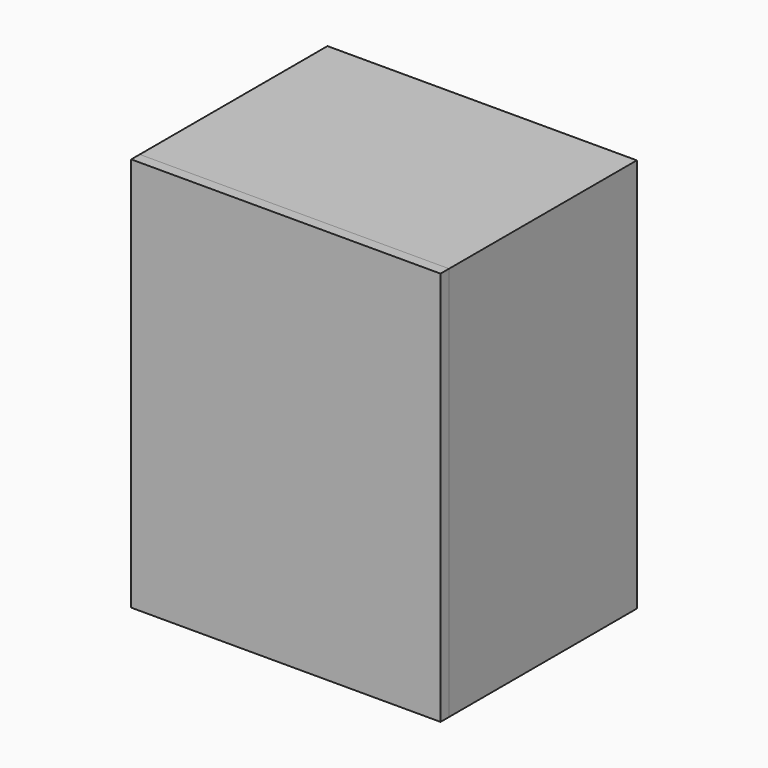
from build123d import *

# Parameters (mm, degrees)
SKETCH_W                        = 29
SKETCH_H                        = 37
PAD_DEPTH                       = 22
SKETCH002_W                     = 27
SKETCH002_H                     = 35
POCKET_DEPTH                    = 17
SKETCH003_W                     = 18
SKETCH003_H                     = 25
POCKET001_DEPTH                 = 4
SKETCH004_W                     = 10
SKETCH004_H                     = 1
POCKET002_DEPTH                 = 17
SKETCH005_R                     = 1
POCKET003_DEPTH                 = 5
SKETCH005_LINEARPATTERN_2_R     = 1
POCKET003_LINEARPATTERN_2_DEPTH = 5
SKETCH005_LINEARPATTERN_3_R     = 1
POCKET003_LINEARPATTERN_3_DEPTH = 5
SKETCH005_LINEARPATTERN_4_R     = 1
POCKET003_LINEARPATTERN_4_DEPTH = 5
LINEARPATTERN001_COUNT          = 6
LINEARPATTERN001_PITCH          = 4.2
SKETCH008_W                     = 8.5
SKETCH008_H                     = 1
PAD002_DEPTH                    = 1
SKETCH006_W                     = 8
SKETCH006_H                     = 1
PAD001_DEPTH                    = 27
SKETCH010_W                     = 10
SKETCH010_H                     = 11
POCKET004_DEPTH                 = 5
SKETCH009_R                     = 0.75
PAD003_DEPTH                    = 3
SKETCH014_W                     = 3
SKETCH014_H                     = 35
POCKET005_DEPTH                 = 4
SKETCH011_W                     = 29
SKETCH011_H                     = 37
PAD004_DEPTH                    = 1
SKETCH012_W                     = 26.87868
SKETCH012_H                     = 34.87868
PAD005_DEPTH                    = 3
SKETCH013_W                     = 10
SKETCH013_H                     = 3
PAD006_DEPTH                    = 2


with BuildPart() as box:
    # Sketch → Pad (new body)
    with BuildSketch(Plane.XZ):
        with Locations((14.5, 18.5)):
            Rectangle(SKETCH_W, SKETCH_H)
    extrude(amount=PAD_DEPTH)

    # Sketch002 (on Face6 of Pad) → Pocket (cut)
    with BuildSketch(Plane.XZ.offset(22)):
        with Locations((14.5, 18.5)):
            Rectangle(SKETCH002_W, SKETCH002_H)
    extrude(amount=-POCKET_DEPTH, mode=Mode.SUBTRACT)

    # Sketch003 (on Face11 of Pocket) → Pocket001 (cut)
    with BuildSketch(Plane.XZ.offset(5)):
        with Locations((14.5, 23.5)):
            Rectangle(SKETCH003_W, SKETCH003_H)
    extrude(amount=-POCKET001_DEPTH, mode=Mode.SUBTRACT)

    # Sketch004 (on Face5 of Pocket001) → Pocket002 (cut)
    with BuildSketch(Plane.XZ.offset(22)):
        with Locations((14.5, 0.5)):
            Rectangle(SKETCH004_W, SKETCH004_H)
    extrude(amount=-POCKET002_DEPTH, mode=Mode.SUBTRACT)

    # Sketch005 (on Face20 of Pocket002) → Pocket003 (cut)
    with BuildSketch(Plane.XZ.offset(1)):
        with Locations((7.5, 13)):
            Circle(SKETCH005_R)
    pocket003 = extrude(amount=-POCKET003_DEPTH, mode=Mode.SUBTRACT)

    # Sketch005 LinearPattern 2 → Pocket003 LinearPattern 2 (cut)
    with BuildSketch(Plane(origin=(4.333333, -1, 0), x_dir=(1, 0, 0), z_dir=(0, -1, 0))):
        with Locations((7.5, 13)):
            Circle(SKETCH005_LINEARPATTERN_2_R)
    pocket003_linearpattern_2 = extrude(amount=-POCKET003_LINEARPATTERN_2_DEPTH, mode=Mode.SUBTRACT)

    # Sketch005 LinearPattern 3 → Pocket003 LinearPattern 3 (cut)
    with BuildSketch(Plane(origin=(8.666667, -1, 0), x_dir=(1, 0, 0), z_dir=(0, -1, 0))):
        with Locations((7.5, 13)):
            Circle(SKETCH005_LINEARPATTERN_3_R)
    pocket003_linearpattern_3 = extrude(amount=-POCKET003_LINEARPATTERN_3_DEPTH, mode=Mode.SUBTRACT)

    # Sketch005 LinearPattern 4 → Pocket003 LinearPattern 4 (cut)
    with BuildSketch(Plane(origin=(13, -1, 0), x_dir=(1, 0, 0), z_dir=(0, -1, 0))):
        with Locations((7.5, 13)):
            Circle(SKETCH005_LINEARPATTERN_4_R)
    pocket003_linearpattern_4 = extrude(amount=-POCKET003_LINEARPATTERN_4_DEPTH, mode=Mode.SUBTRACT)

    # LinearPattern001: Pocket003, Pocket003 LinearPattern 2, Pocket003 LinearPattern 3, Pocket003 LinearPattern 4 ×6
    with Locations(*[(0, 0, i * LINEARPATTERN001_PITCH) for i in range(1, LINEARPATTERN001_COUNT)]):
        add(pocket003, mode=Mode.SUBTRACT)
        add(pocket003_linearpattern_2, mode=Mode.SUBTRACT)
        add(pocket003_linearpattern_3, mode=Mode.SUBTRACT)
        add(pocket003_linearpattern_4, mode=Mode.SUBTRACT)

    # Sketch008 → Pad002 (join)
    with BuildSketch(Plane(origin=(0, 0, 1), x_dir=(-1, 0, 0), z_dir=(0, 0, 1))):
        with Locations((-5.25, 7)):
            Rectangle(SKETCH008_W, SKETCH008_H)
        with Locations((-23.75, 7)):
            Rectangle(SKETCH008_W, SKETCH008_H)
    extrude(amount=PAD002_DEPTH)

    # Sketch006 (on Face37 of MultiTransform) → Pad001 (join)
    with BuildSketch(Plane(origin=(1, 0, 0), x_dir=(0, 0, 1), z_dir=(1, 0, 0))):
        with Locations((5, 14.5)):
            Rectangle(SKETCH006_W, SKETCH006_H)
    extrude(amount=PAD001_DEPTH)

    # Sketch010 → Pocket004 (cut)
    with BuildSketch(Plane.XZ.offset(15)):
        with Locations((14.5, 6.5)):
            Rectangle(SKETCH010_W, SKETCH010_H)
    extrude(amount=-POCKET004_DEPTH, mode=Mode.SUBTRACT)

    # Sketch009 (on Face48 of Pad001) → Pad003 (join)
    with BuildSketch(Plane.XZ.offset(15)):
        with Locations((5, 4)):
            Circle(SKETCH009_R)
        with Locations((24, 4)):
            Circle(SKETCH009_R)
    extrude(amount=PAD003_DEPTH)

    # Sketch014 (on Face43 of Pad003) → Pocket005 (cut)
    with BuildSketch(Plane.XZ.offset(5)):
        with Locations((2.5, 18.5)):
            Rectangle(SKETCH014_W, SKETCH014_H)
        with Locations((26.5, 18.5)):
            Rectangle(SKETCH014_W, SKETCH014_H)
    extrude(amount=-POCKET005_DEPTH, mode=Mode.SUBTRACT)


with BuildPart() as lid:
    # Sketch011 → Pad004 (new body)
    with BuildSketch(Plane.XZ):
        with Locations((14.5, 18.5)):
            Rectangle(SKETCH011_W, SKETCH011_H)
    extrude(amount=PAD004_DEPTH)

    # Sketch012 (on Face5 of Pad004) → Pad005 (join)
    with BuildSketch(Plane(origin=(0, 0, 0), x_dir=(1, 0, 0), z_dir=(0, 1, 0))):
        with Locations((14.5, -18.5)):
            Rectangle(SKETCH012_W, SKETCH012_H)
    extrude(amount=PAD005_DEPTH)

    # Sketch013 (on Face11 of Pad005) → Pad006 (join)
    with BuildSketch(Plane(origin=(0, 3, 0), x_dir=(1, 0, 0), z_dir=(0, 1, 0))):
        with Locations((14.5, -2.56066)):
            Rectangle(SKETCH013_W, SKETCH013_H)
    extrude(amount=PAD006_DEPTH)


with BuildPart() as lid_1:
    # Body001 placement: moved
    add(lid.part.moved(Location((0, -22, 0))))


solid = Compound([box.part, lid_1.part])
